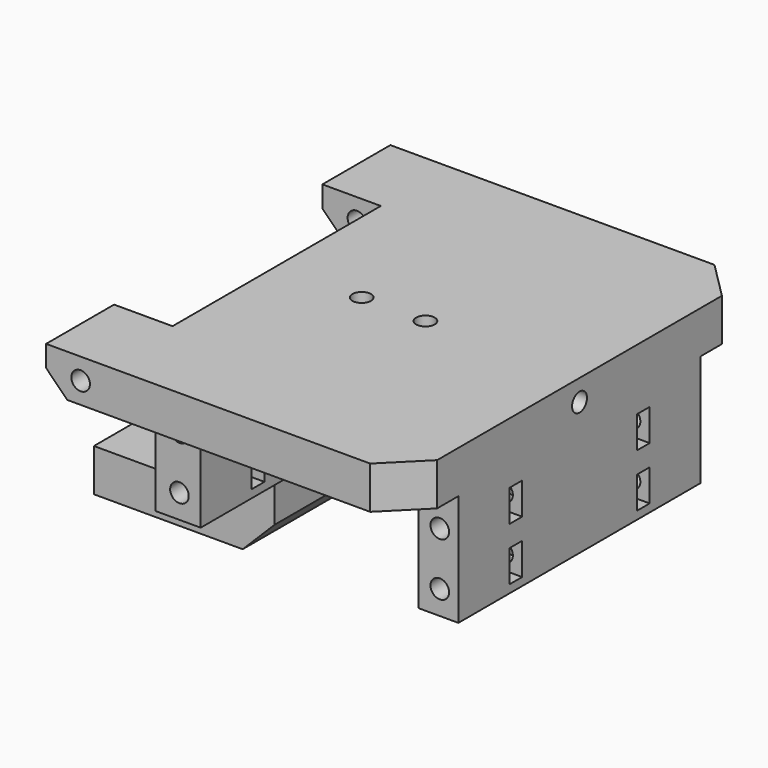
from build123d import *

# Parameters (mm, degrees)
BOX061_W                  = 15
BOX061_H                  = 100
BOX061_DEPTH              = 24
BOX060_W                  = 9
BOX060_H                  = 20
BOX060_DEPTH              = 38
CYLINDER059_R             = 1.75
CYLINDER059_DEPTH         = 36
CYLINDER058_R             = 1.75
CYLINDER058_DEPTH         = 36
PRISM_DEPTH               = 10
PRISM_ROLL_ANGLE          = 90.000052
PRISM_PITCH_ANGLE         = 59.999967
PRISM_PLACEMENT_ANGLE     = 90.000052
CYLINDER032_R             = 1.75
CYLINDER032_DEPTH         = 30
CYLINDER032_PITCH_ANGLE   = 90
CYLINDER030_R             = 1.75
CYLINDER030_DEPTH         = 24.5
CYLINDER030_PITCH_ANGLE   = 90
CYLINDER031_R             = 3
CYLINDER031_DEPTH         = 21.5
CYLINDER031_PITCH_ANGLE   = 90
FUSION027_PITCH_ANGLE     = -90
FUSION027_PLACEMENT_ANGLE = -180
FUSION024_PITCH_ANGLE     = -90
FUSION024_PLACEMENT_ANGLE = -180
FUSION025_PITCH_ANGLE     = -90
FUSION025_PLACEMENT_ANGLE = -180
BOX029_W                  = 3
BOX029_H                  = 74
BOX029_DEPTH              = 6
BOX029_PITCH_ANGLE        = -90
BOX029_PLACEMENT_ANGLE    = -180
BOX030_W                  = 3
BOX030_H                  = 74
BOX030_DEPTH              = 6
BOX030_PITCH_ANGLE        = -90
BOX030_PLACEMENT_ANGLE    = -180
FUSION026_PITCH_ANGLE     = -90
FUSION026_PLACEMENT_ANGLE = -180
FUSION028_ROLL_ANGLE      = -90
FUSION028_PLACEMENT_ANGLE = 90
BOX014_W                  = 34
BOX014_H                  = 21
BOX014_DEPTH              = 8
BOX015_W                  = 8
BOX015_H                  = 21
BOX015_DEPTH              = 42
CYLINDER025_R             = 1.75
CYLINDER025_DEPTH         = 100
CYLINDER025_ROLL_ANGLE    = -90
CYLINDER028_R             = 1.75
CYLINDER028_DEPTH         = 24.5
CYLINDER028_PITCH_ANGLE   = 90
CYLINDER029_R             = 3
CYLINDER029_DEPTH         = 21.5
CYLINDER029_PITCH_ANGLE   = 90
FUSION018_PITCH_ANGLE     = -90
FUSION018_PLACEMENT_ANGLE = -180
BOX024_W                  = 3
BOX024_H                  = 60
BOX024_DEPTH              = 6
BOX024_PITCH_ANGLE        = -90
BOX024_PLACEMENT_ANGLE    = -180
BOX025_W                  = 3
BOX025_H                  = 60
BOX025_DEPTH              = 6
BOX025_PITCH_ANGLE        = -90
BOX025_PLACEMENT_ANGLE    = -180
BOX022_W                  = 37
BOX022_H                  = 41
BOX022_DEPTH              = 25
BOX022_PITCH_ANGLE        = -90
BOX022_PLACEMENT_ANGLE    = -180
FUSION015_PITCH_ANGLE     = -90
FUSION015_PLACEMENT_ANGLE = -180
FUSION016_PITCH_ANGLE     = -90
FUSION016_PLACEMENT_ANGLE = -180
FUSION017_PITCH_ANGLE     = -90
FUSION017_PLACEMENT_ANGLE = -180
FUSION022_PITCH_ANGLE     = 90
FUSION022_PLACEMENT_ANGLE = 90
BOX059_W                  = 72
BOX059_H                  = 21
BOX059_DEPTH              = 24
BOX012_W                  = 16
BOX012_H                  = 49
BOX012_DEPTH              = 30
BOX011_W                  = 68
BOX011_H                  = 81
BOX011_DEPTH              = 29
CHAMFER007_SIZE           = 7
CHAMFER008_SIZE           = 6
CHAMFER011_SIZE           = 4


with BuildPart() as cube064:
    # Box061 → Box061 (new body)
    with BuildSketch(Plane(origin=(-51, -50, -30), x_dir=(1, 0, 0), z_dir=(0, 0, 1))):
        with Locations((7.5, 50)):
            Rectangle(BOX061_W, BOX061_H)
    extrude(amount=BOX061_DEPTH)


with BuildPart() as cube063:
    # Box060 → Box060 (new body)
    with BuildSketch(Plane(origin=(7, -10, -40), x_dir=(1, 0, 0), z_dir=(0, 0, 1))):
        with Locations((4.5, 10)):
            Rectangle(BOX060_W, BOX060_H)
    extrude(amount=BOX060_DEPTH)


with BuildPart() as cylinder154:
    # Cylinder059 → Cylinder059 (new body)
    with BuildSketch(Plane(origin=(-8, 0, -13), x_dir=(1, 0, 0), z_dir=(0, 0, 1))):
        Circle(CYLINDER059_R)
    extrude(amount=CYLINDER059_DEPTH)


with BuildPart() as fusion054:
    # Cylinder058 → Cylinder058 (new body)
    with BuildSketch(Plane(origin=(-20, 0, -13), x_dir=(1, 0, 0), z_dir=(0, 0, 1))):
        Circle(CYLINDER058_R)
    extrude(amount=CYLINDER058_DEPTH)

    # Fusion054: union Cylinder154
    add(cylinder154.part)


with BuildPart() as prism:
    # Prism → Prism (new body)
    with BuildSketch(Plane.XY):
        Polygon((3.3, 0), (1.65, 2.857884), (-1.65, 2.857884), (-3.3, 0), (-1.65, -2.857884), (1.65, -2.857884), align=None)
    extrude(amount=PRISM_DEPTH)


with BuildPart() as prism_1:
    # Prism roll: moved
    add(prism.part.rotate(Axis((0, 0, 0), (1, 0, 0)), PRISM_ROLL_ANGLE))


with BuildPart() as prism_2:
    # Prism pitch: moved
    add(prism_1.part.rotate(Axis((0, 0, 0), (0, 1, 0)), PRISM_PITCH_ANGLE))


with BuildPart() as prism_3:
    # Prism placement: moved
    add(prism_2.part.moved(Location((8, 0, -2))).rotate(Axis((8, 0, -2), (0, 0, 1)), PRISM_PLACEMENT_ANGLE))


with BuildPart() as cylinder147:
    # Cylinder032 → Cylinder032 (new body)
    with BuildSketch(Plane.XY):
        Circle(CYLINDER032_R)
    extrude(amount=CYLINDER032_DEPTH)


with BuildPart() as cylinder147_1:
    # Cylinder032 pitch: moved
    add(cylinder147.part.rotate(Axis((0, 0, 0), (0, 1, 0)), CYLINDER032_PITCH_ANGLE))


with BuildPart() as cylinder147_2:
    # Cylinder032 placement: moved
    add(cylinder147_1.part.moved(Location((10, 0, -2))))


with BuildPart() as joint_d014:
    # Cylinder030 → Cylinder030 (new body)
    with BuildSketch(Plane.XY):
        Circle(CYLINDER030_R)
    extrude(amount=CYLINDER030_DEPTH)


with BuildPart() as joint_d014_1:
    # Cylinder030 pitch: moved
    add(joint_d014.part.rotate(Axis((0, 0, 0), (0, 1, 0)), CYLINDER030_PITCH_ANGLE))


with BuildPart() as joint_d014_2:
    # Cylinder030 placement: moved
    add(joint_d014_1.part.moved(Location((16, -24.5, 7))))


with BuildPart() as joint_d015:
    # Cylinder031 → Cylinder031 (new body)
    with BuildSketch(Plane.XY):
        Circle(CYLINDER031_R)
    extrude(amount=CYLINDER031_DEPTH)


with BuildPart() as joint_d015_1:
    # Cylinder031 pitch: moved
    add(joint_d015.part.rotate(Axis((0, 0, 0), (0, 1, 0)), CYLINDER031_PITCH_ANGLE))


with BuildPart() as joint_d015_2:
    # Cylinder031 placement: moved
    add(joint_d015_1.part.moved(Location((37, -24.5, 7))))


with BuildPart() as fusion027:
    # Fusion027 base: copy of Joint-D015
    add(joint_d015_2.part)

    # Fusion027: union Joint-D014
    add(joint_d014_2.part)


with BuildPart() as fusion027_1:
    # Fusion027 pitch: moved
    add(fusion027.part.rotate(Axis((0, 0, 0), (0, 1, 0)), FUSION027_PITCH_ANGLE))


with BuildPart() as fusion027_2:
    # Fusion027 placement: moved
    add(fusion027_1.part.moved(Location((-2, -39.5, 0))).rotate(Axis((-2, -39.5, 0), (0, 0, 1)), FUSION027_PLACEMENT_ANGLE))


with BuildPart() as fusion024:
    # Fusion024 base: copy of Joint-D015
    add(joint_d015_2.part)

    # Fusion024: union Joint-D014
    add(joint_d014_2.part)


with BuildPart() as fusion024_1:
    # Fusion024 pitch: moved
    add(fusion024.part.rotate(Axis((0, 0, 0), (0, 1, 0)), FUSION024_PITCH_ANGLE))


with BuildPart() as fusion024_2:
    # Fusion024 placement: moved
    add(fusion024_1.part.moved(Location((-12, 9.5, 0))).rotate(Axis((-12, 9.5, 0), (0, 0, 1)), FUSION024_PLACEMENT_ANGLE))


with BuildPart() as fusion025:
    # Fusion025 base: copy of Joint-D015
    add(joint_d015_2.part)

    # Fusion025: union Joint-D014
    add(joint_d014_2.part)


with BuildPart() as fusion025_1:
    # Fusion025 pitch: moved
    add(fusion025.part.rotate(Axis((0, 0, 0), (0, 1, 0)), FUSION025_PITCH_ANGLE))


with BuildPart() as fusion025_2:
    # Fusion025 placement: moved
    add(fusion025_1.part.moved(Location((-2, 9.5, 0))).rotate(Axis((-2, 9.5, 0), (0, 0, 1)), FUSION025_PLACEMENT_ANGLE))


with BuildPart() as cube047:
    # Box029 → Box029 (new body)
    with BuildSketch(Plane.XY):
        with Locations((1.5, 37)):
            Rectangle(BOX029_W, BOX029_H)
    extrude(amount=BOX029_DEPTH)


with BuildPart() as cube047_1:
    # Box029 pitch: moved
    add(cube047.part.rotate(Axis((0, 0, 0), (0, 1, 0)), BOX029_PITCH_ANGLE))


with BuildPart() as cube047_2:
    # Box029 placement: moved
    add(cube047_1.part.moved(Location((-8, 41.5, 18.5))).rotate(Axis((-8, 41.5, 18.5), (0, 0, 1)), BOX029_PLACEMENT_ANGLE))


with BuildPart() as cube048:
    # Box030 → Box030 (new body)
    with BuildSketch(Plane.XY):
        with Locations((1.5, 37)):
            Rectangle(BOX030_W, BOX030_H)
    extrude(amount=BOX030_DEPTH)


with BuildPart() as cube048_1:
    # Box030 pitch: moved
    add(cube048.part.rotate(Axis((0, 0, 0), (0, 1, 0)), BOX030_PITCH_ANGLE))


with BuildPart() as cube048_2:
    # Box030 placement: moved
    add(cube048_1.part.moved(Location((2, 41.5, 18.5))).rotate(Axis((2, 41.5, 18.5), (0, 0, 1)), BOX030_PLACEMENT_ANGLE))


with BuildPart() as fusion028:
    # Fusion026 base: copy of Joint-D015
    add(joint_d015_2.part)

    # Fusion026: union Joint-D014
    add(joint_d014_2.part)


with BuildPart() as fusion028_1:
    # Fusion026 pitch: moved
    add(fusion028.part.rotate(Axis((0, 0, 0), (0, 1, 0)), FUSION026_PITCH_ANGLE))


with BuildPart() as fusion028_2:
    # Fusion026 placement: moved
    add(fusion028_1.part.moved(Location((-12, -39.5, 0))).rotate(Axis((-12, -39.5, 0), (0, 0, 1)), FUSION026_PLACEMENT_ANGLE))

    # Fusion028: union Fusion027, Fusion024, Fusion025, Cube047, Cube048
    add(fusion027_2.part)
    add(fusion024_2.part)
    add(fusion025_2.part)
    add(cube047_2.part)
    add(cube048_2.part)


with BuildPart() as fusion028_3:
    # Fusion028 roll: moved
    add(fusion028_2.part.rotate(Axis((0, 0, 0), (1, 0, 0)), FUSION028_ROLL_ANGLE))


with BuildPart() as fusion028_4:
    # Fusion028 placement: moved
    add(fusion028_3.part.moved(Location((-30, 0, -2))).rotate(Axis((-30, 0, -2), (0, 0, 1)), FUSION028_PLACEMENT_ANGLE))


with BuildPart() as cube015:
    # Box014 → Box014 (new body)
    with BuildSketch(Plane(origin=(-62, -10.5, -40), x_dir=(1, 0, 0), z_dir=(0, 0, 1))):
        with Locations((17, 10.5)):
            Rectangle(BOX014_W, BOX014_H)
    extrude(amount=BOX014_DEPTH)


with BuildPart() as cube016:
    # Box015 → Box015 (new body)
    with BuildSketch(Plane(origin=(-36, -10.5, -40), x_dir=(1, 0, 0), z_dir=(0, 0, 1))):
        with Locations((4, 10.5)):
            Rectangle(BOX015_W, BOX015_H)
    extrude(amount=BOX015_DEPTH)


with BuildPart() as cylinder025:
    # Cylinder025 → Cylinder025 (new body)
    with BuildSketch(Plane.XY):
        Circle(CYLINDER025_R)
    extrude(amount=CYLINDER025_DEPTH)


with BuildPart() as cylinder025_1:
    # Cylinder025 roll: moved
    add(cylinder025.part.rotate(Axis((0, 0, 0), (1, 0, 0)), CYLINDER025_ROLL_ANGLE))


with BuildPart() as cylinder025_2:
    # Cylinder025 placement: moved
    add(cylinder025_1.part.moved(Location((-40.5, -50, -2))))


with BuildPart() as joint_d012:
    # Cylinder028 → Cylinder028 (new body)
    with BuildSketch(Plane.XY):
        Circle(CYLINDER028_R)
    extrude(amount=CYLINDER028_DEPTH)


with BuildPart() as joint_d012_1:
    # Cylinder028 pitch: moved
    add(joint_d012.part.rotate(Axis((0, 0, 0), (0, 1, 0)), CYLINDER028_PITCH_ANGLE))


with BuildPart() as joint_d012_2:
    # Cylinder028 placement: moved
    add(joint_d012_1.part.moved(Location((16, -24.5, 7))))


with BuildPart() as joint_d013:
    # Cylinder029 → Cylinder029 (new body)
    with BuildSketch(Plane.XY):
        Circle(CYLINDER029_R)
    extrude(amount=CYLINDER029_DEPTH)


with BuildPart() as joint_d013_1:
    # Cylinder029 pitch: moved
    add(joint_d013.part.rotate(Axis((0, 0, 0), (0, 1, 0)), CYLINDER029_PITCH_ANGLE))


with BuildPart() as joint_d013_2:
    # Cylinder029 placement: moved
    add(joint_d013_1.part.moved(Location((37, -24.5, 7))))


with BuildPart() as fusion018:
    # Fusion018 base: copy of Joint-D013
    add(joint_d013_2.part)

    # Fusion018: union Joint-D012
    add(joint_d012_2.part)


with BuildPart() as fusion018_1:
    # Fusion018 pitch: moved
    add(fusion018.part.rotate(Axis((0, 0, 0), (0, 1, 0)), FUSION018_PITCH_ANGLE))


with BuildPart() as fusion018_2:
    # Fusion018 placement: moved
    add(fusion018_1.part.moved(Location((-2, -39.5, 0))).rotate(Axis((-2, -39.5, 0), (0, 0, 1)), FUSION018_PLACEMENT_ANGLE))


with BuildPart() as cube043:
    # Box024 → Box024 (new body)
    with BuildSketch(Plane.XY):
        with Locations((1.5, 30)):
            Rectangle(BOX024_W, BOX024_H)
    extrude(amount=BOX024_DEPTH)


with BuildPart() as cube043_1:
    # Box024 pitch: moved
    add(cube043.part.rotate(Axis((0, 0, 0), (0, 1, 0)), BOX024_PITCH_ANGLE))


with BuildPart() as cube043_2:
    # Box024 placement: moved
    add(cube043_1.part.moved(Location((-8, 39.5, 18.5))).rotate(Axis((-8, 39.5, 18.5), (0, 0, 1)), BOX024_PLACEMENT_ANGLE))


with BuildPart() as cube044:
    # Box025 → Box025 (new body)
    with BuildSketch(Plane.XY):
        with Locations((1.5, 30)):
            Rectangle(BOX025_W, BOX025_H)
    extrude(amount=BOX025_DEPTH)


with BuildPart() as cube044_1:
    # Box025 pitch: moved
    add(cube044.part.rotate(Axis((0, 0, 0), (0, 1, 0)), BOX025_PITCH_ANGLE))


with BuildPart() as cube044_2:
    # Box025 placement: moved
    add(cube044_1.part.moved(Location((2, 39.5, 18.5))).rotate(Axis((2, 39.5, 18.5), (0, 0, 1)), BOX025_PLACEMENT_ANGLE))


with BuildPart() as cube042:
    # Box022 → Box022 (new body)
    with BuildSketch(Plane.XY):
        with Locations((18.5, 20.5)):
            Rectangle(BOX022_W, BOX022_H)
    extrude(amount=BOX022_DEPTH)


with BuildPart() as cube042_1:
    # Box022 pitch: moved
    add(cube042.part.rotate(Axis((0, 0, 0), (0, 1, 0)), BOX022_PITCH_ANGLE))


with BuildPart() as cube042_2:
    # Box022 placement: moved
    add(cube042_1.part.moved(Location((-10, 30, -1))).rotate(Axis((-10, 30, -1), (0, 0, 1)), BOX022_PLACEMENT_ANGLE))


with BuildPart() as fusion015:
    # Fusion015 base: copy of Joint-D013
    add(joint_d013_2.part)

    # Fusion015: union Joint-D012
    add(joint_d012_2.part)


with BuildPart() as fusion015_1:
    # Fusion015 pitch: moved
    add(fusion015.part.rotate(Axis((0, 0, 0), (0, 1, 0)), FUSION015_PITCH_ANGLE))


with BuildPart() as fusion015_2:
    # Fusion015 placement: moved
    add(fusion015_1.part.moved(Location((-12, 9.5, 0))).rotate(Axis((-12, 9.5, 0), (0, 0, 1)), FUSION015_PLACEMENT_ANGLE))


with BuildPart() as fusion016:
    # Fusion016 base: copy of Joint-D013
    add(joint_d013_2.part)

    # Fusion016: union Joint-D012
    add(joint_d012_2.part)


with BuildPart() as fusion016_1:
    # Fusion016 pitch: moved
    add(fusion016.part.rotate(Axis((0, 0, 0), (0, 1, 0)), FUSION016_PITCH_ANGLE))


with BuildPart() as fusion016_2:
    # Fusion016 placement: moved
    add(fusion016_1.part.moved(Location((-2, 9.5, 0))).rotate(Axis((-2, 9.5, 0), (0, 0, 1)), FUSION016_PLACEMENT_ANGLE))


with BuildPart() as fusion022:
    # Fusion017 base: copy of Joint-D013
    add(joint_d013_2.part)

    # Fusion017: union Joint-D012
    add(joint_d012_2.part)


with BuildPart() as fusion022_1:
    # Fusion017 pitch: moved
    add(fusion022.part.rotate(Axis((0, 0, 0), (0, 1, 0)), FUSION017_PITCH_ANGLE))


with BuildPart() as fusion022_2:
    # Fusion017 placement: moved
    add(fusion022_1.part.moved(Location((-12, -39.5, 0))).rotate(Axis((-12, -39.5, 0), (0, 0, 1)), FUSION017_PLACEMENT_ANGLE))

    # Fusion022: union Fusion018, Cube043, Cube044, Cube042, Fusion015, Fusion016
    add(fusion018_2.part)
    add(cube043_2.part)
    add(cube044_2.part)
    add(cube042_2.part)
    add(fusion015_2.part)
    add(fusion016_2.part)


with BuildPart() as fusion022_3:
    # Fusion022 pitch: moved
    add(fusion022_2.part.rotate(Axis((0, 0, 0), (0, 1, 0)), FUSION022_PITCH_ANGLE))


with BuildPart() as fusion022_4:
    # Fusion022 placement: moved
    add(fusion022_3.part.moved(Location((2.5, -5, -14))).rotate(Axis((2.5, -5, -14), (0, 0, 1)), FUSION022_PLACEMENT_ANGLE))


with BuildPart() as part_mirroring014:
    # Part__Mirroring014: instance of Fusion022
    add(fusion022_4.part.mirror(Plane(origin=(0, 0, 0), x_dir=(1, 0, 0), z_dir=(0, 1, 0))))


with BuildPart() as fusion023:
    # Fusion023 base: copy of Fusion022
    add(fusion022_4.part)

    # Fusion023: union Part__Mirroring014
    add(part_mirroring014.part)


with BuildPart() as fusion023_1:
    # Fusion023 placement: moved
    add(fusion023.part.moved(Location((0, 0, -3.5))))


with BuildPart() as cube062:
    # Box059 → Box059 (new body)
    with BuildSketch(Plane(origin=(-42, 28.5, -30), x_dir=(1, 0, 0), z_dir=(0, 0, 1))):
        with Locations((36, 10.5)):
            Rectangle(BOX059_W, BOX059_H)
    extrude(amount=BOX059_DEPTH)


with BuildPart() as fusion052:
    # Part__Mirroring020: instance of Cube062
    add(cube062.part.mirror(Plane(origin=(0, 0, 0), x_dir=(1, 0, 0), z_dir=(0, 1, 0))))

    # Fusion052: union Cube062
    add(cube062.part)


with BuildPart() as cube013:
    # Box012 → Box012 (new body)
    with BuildSketch(Plane(origin=(-52, -24.5, -25), x_dir=(1, 0, 0), z_dir=(0, 0, 1))):
        with Locations((8, 24.5)):
            Rectangle(BOX012_W, BOX012_H)
    extrude(amount=BOX012_DEPTH)


with BuildPart() as clone_of_chamfer011:
    # Box011 → Box011 (new body)
    with BuildSketch(Plane(origin=(-47, -40.5, -27), x_dir=(1, 0, 0), z_dir=(0, 0, 1))):
        with Locations((34, 40.5)):
            Rectangle(BOX011_W, BOX011_H)
    extrude(amount=BOX011_DEPTH)

    # Cut074: cut Cube013
    add(cube013.part, mode=Mode.SUBTRACT)

    # Cut075: cut Fusion052
    add(fusion052.part, mode=Mode.SUBTRACT)

    # Cut076: cut Fusion023
    add(fusion023_1.part, mode=Mode.SUBTRACT)

    # Cut077: cut Cylinder025
    add(cylinder025_2.part, mode=Mode.SUBTRACT)

    # Fusion053: union Cube015, Cube016
    add(cube015.part)
    add(cube016.part)

    # Cut078: cut Fusion028
    add(fusion028_4.part, mode=Mode.SUBTRACT)

    # Cut079: cut Cylinder147
    add(cylinder147_2.part, mode=Mode.SUBTRACT)

    # Cut080: cut Prism
    add(prism_3.part, mode=Mode.SUBTRACT)

    # Chamfer007
    chamfer007_edges = [clone_of_chamfer011.edges().sort_by_distance(p)[0] for p in [
        (21, 40.5, -2),
        (21, -40.5, -2),
    ]]
    chamfer(chamfer007_edges, length=CHAMFER007_SIZE)

    # Cut081: cut Fusion054
    add(fusion054.part, mode=Mode.SUBTRACT)

    # Chamfer008
    chamfer008_edges = [clone_of_chamfer011.edges().sort_by_distance(p)[0] for p in [
        (-28, 0, -40),
    ]]
    chamfer(chamfer008_edges, length=CHAMFER008_SIZE)

    # Cut082: cut Cube063
    add(cube063.part, mode=Mode.SUBTRACT)

    # Cut085: cut Cube064
    add(cube064.part, mode=Mode.SUBTRACT)

    # Chamfer011
    chamfer011_edges = [clone_of_chamfer011.edges().sort_by_distance(p)[0] for p in [
        (-47, -32.5, -6),
        (-47, 32.5, -6),
    ]]
    chamfer(chamfer011_edges, length=CHAMFER011_SIZE)


solid = clone_of_chamfer011.part
